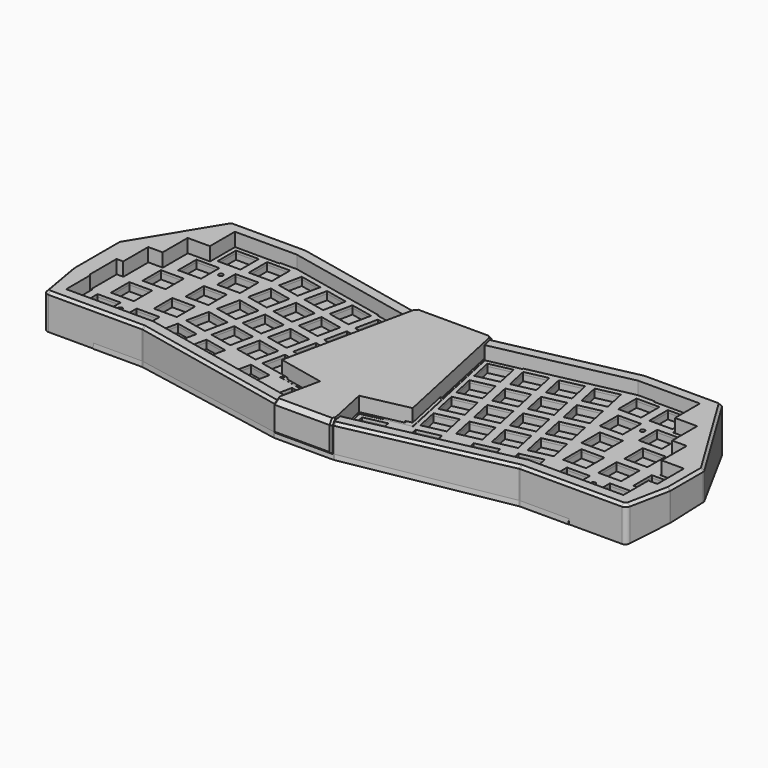
from build123d import *

# Parameters (mm, degrees)
PAD_DEPTH       = 1.6
FILLET_R        = 1.5
FILLET001_R     = 0.8
PAD001_DEPTH    = 40
POCKET_DEPTH    = 400
POCKET001_DEPTH = 50
POCKET001_TAPER = 70
POCKET002_DEPTH = 50
POCKET002_TAPER = 70
POCKET003_DEPTH = 3
POCKET005_DEPTH = 16.8
POCKET007_DEPTH = 22
POCKET012_DEPTH = 59
PAD006_DEPTH    = 3.5
PAD007_DEPTH    = 3.5
SKETCH026_W     = 15
SKETCH026_H     = 4
PAD008_DEPTH    = 3.5
SKETCH027_W     = 15
SKETCH027_H     = 4
PAD009_DEPTH    = 3.5
FILLET003_R     = 8
FILLET004_R     = 3
CHAMFER_SIZE    = 1.6
POCKET019_DEPTH = 200
SKETCH038_R     = 2
POCKET025_DEPTH = 6.7
PAD015_DEPTH    = 3.5
PAD016_DEPTH    = 3.5
POCKET035_DEPTH = 115
PAD002_DEPTH    = 1.5
POCKET008_DEPTH = 5
SKETCH014_W     = 14
SKETCH014_H     = 14
POCKET009_DEPTH = 5
SKETCH044_R     = 1.35
POCKET029_DEPTH = 9
PAD003_DEPTH    = 1.5
POCKET010_DEPTH = 5
SKETCH016_W     = 14
SKETCH016_H     = 14
POCKET011_DEPTH = 5
SKETCH043_R     = 1.35
POCKET028_DEPTH = 9
PAD004_DEPTH    = 20.5
POCKET013_DEPTH = 500
POCKET034_DEPTH = 6
PAD005_DEPTH    = 20.5
POCKET014_DEPTH = 500
SKETCH022_W     = 15
SKETCH022_H     = 4.4
POCKET015_DEPTH = 8
POCKET016_DEPTH = 7
PAD010_DEPTH    = 1.6
FILLET002_R     = 1.5
PAD011_DEPTH    = 28.4
POCKET017_DEPTH = 50
POCKET018_DEPTH = 19.6
POCKET020_DEPTH = 26
POCKET021_DEPTH = 16
POCKET022_DEPTH = 19
POCKET023_DEPTH = 25
POCKET024_DEPTH = 1
CHAMFER001_SIZE = 2.6
CHAMFER002_SIZE = 1.2
SKETCH045_R     = 4.5
SKETCH045_R_2   = 2
PAD013_DEPTH    = 5.6
SKETCH046_R     = 2
POCKET030_DEPTH = 6.7
SKETCH047_R     = 2
POCKET031_DEPTH = 5.7
POCKET032_DEPTH = 13
CHAMFER003_SIZE = 1
SKETCH054_R     = 3.6
SKETCH054_R_2   = 2
PAD014_DEPTH    = 1
SKETCH055_W     = 19
SKETCH055_H     = 36
POCKET033_DEPTH = 1
PAD017_DEPTH    = 8
PAD018_DEPTH    = 8
FILLET005_R     = 1
SKETCH039_R     = 1.5
PAD012_DEPTH    = 3
SKETCH075_W     = 14
SKETCH075_H     = 14
PAD019_DEPTH    = 3.5
SKETCH076_R     = 1.35
POCKET036_DEPTH = 28
SKETCH077_W     = 14
SKETCH077_H     = 14
PAD020_DEPTH    = 3.5
SKETCH078_R     = 1.35
POCKET037_DEPTH = 50
PAD021_DEPTH    = 15
POCKET038_DEPTH = 169.5
SKETCH081_W     = 12
SKETCH081_H     = 16.956177
POCKET039_DEPTH = 2


with BuildPart() as pcb:
    # Sketch001 → Pad (new body)
    with BuildSketch(Plane.XY):
        with BuildLine():
            Line((-25.6569009013, 76.7143133761), (-104.1862885277, 93.40625))
            Line((-104.1862885277, 93.40625), (-140.3865264554, 93.40625))
            Line((-140.3865264554, 93.40625), (-140.3865264554, 74.35625))
            Line((-140.3865264554, 74.35625), (-153.9607289552, 74.35625))
            Line((-153.9607289552, 74.35625), (-153.9607289552, 55.30625))
            Line((-153.9607289552, 55.30625), (-162.772431455, 55.30625))
            Line((-162.772431455, 55.30625), (-162.772431455, 36.25625))
            Line((-162.772431455, 36.25625), (-166.8216339549, 36.25625))
            Line((-166.8216339549, 36.25625), (-166.8216339549, 18.7896622428))
            Line((-166.8216339549, 18.7896622428), (-166.1083364547, 18.0000001221))
            Line((-166.1083364547, 18.0000001221), (-166.1083364547, -0.25625))
            Line((-166.1083364547, -0.25625), (-114.0306139632, -0.25625))
            Line((-114.0306139632, -0.25625), (-33.0319665059, -17.4730440034))
            ThreePointArc((-33.0319665059, -17.4730440034), (0, -21.0075427473), (33.0319665059, -17.4730440034))
            Line((114.0306139632, -0.25625), (33.0319665059, -17.4730440034))
            Line((114.0306139632, -0.25625), (170.8708364547, -0.25625))
            Line((170.8708364547, -0.25625), (170.8708364547, 18.79375))
            Line((170.8708364547, 18.79375), (176.3466339549, 18.79375))
            Line((176.3466339549, 18.79375), (176.3466339549, 36.25625))
            Line((176.3466339549, 36.25625), (162.772431455, 36.25625))
            Line((162.772431455, 36.25625), (162.772431455, 55.30625))
            Line((162.772431455, 55.30625), (153.9607289552, 55.30625))
            Line((153.9607289552, 55.30625), (153.9607289552, 74.35625))
            Line((153.9607289552, 74.35625), (140.3865264554, 74.35625))
            Line((140.3865264554, 74.35625), (140.3865264554, 93.40625))
            Line((140.3865264554, 93.40625), (104.1862885277, 93.40625))
            Line((104.1862885277, 93.40625), (25.6569009013, 76.7143133761))
            Line((34.7896818101, 33.7479573294), (25.6569009013, 76.7143133761))
            Line((29.5137981886, 32.626533647), (34.7896818101, 33.7479573294))
            Line((35.8509465247, 2.8125947766), (29.5137981886, 32.626533647))
            ThreePointArc((-35.8509465247, 2.8125947766), (0, -2.07), (35.8509465247, 2.8125947766))
            Line((-35.8509465247, 2.8125947766), (-29.5137981886, 32.626533647))
            Line((-29.5137981886, 32.626533647), (-34.7896818101, 33.7479573294))
            Line((-34.7896818101, 33.7479573294), (-25.6569009013, 76.7143133761))
        make_face()
    extrude(amount=PAD_DEPTH)

    # Fillet
    fillet_edges = [pcb.edges().sort_by_distance(p)[0] for p in [
        (-166.108336, -0.25625, 0.8),
        (-166.821634, 36.25625, 0.8),
        (-162.772431, 55.30625, 0.8),
        (-153.960729, 74.35625, 0.8),
        (-140.386526, 93.40625, 0.8),
        (-25.656901, 76.714313, 0.8),
        (25.656901, 76.714313, 0.8),
        (140.386526, 93.40625, 0.8),
        (153.960729, 74.35625, 0.8),
        (162.772431, 55.30625, 0.8),
        (176.346634, 36.25625, 0.8),
        (176.346634, 18.79375, 0.8),
        (170.870836, -0.25625, 0.8),
        (-114.030614, -0.25625, 0.8),
        (114.030614, -0.25625, 0.8),
        (-104.186289, 93.40625, 0.8),
        (104.186289, 93.40625, 0.8),
    ]]
    fillet(fillet_edges, radius=FILLET_R)

    # Fillet001
    fillet001_edges = [pcb.edges().sort_by_distance(p)[0] for p in [
        (-34.789682, 33.747957, 0.8),
        (-29.513798, 32.626534, 0.8),
        (-35.850947, 2.812595, 0.8),
        (-140.386526, 74.35625, 0.8),
        (-153.960729, 55.30625, 0.8),
        (-162.772431, 36.25625, 0.8),
        (-166.108336, 18, 0.8),
        (-166.821634, 18.789662, 0.8),
        (35.850947, 2.812595, 0.8),
        (29.513798, 32.626534, 0.8),
        (34.789682, 33.747957, 0.8),
        (140.386526, 74.35625, 0.8),
        (153.960729, 55.30625, 0.8),
        (162.772431, 36.25625, 0.8),
        (170.870836, 18.79375, 0.8),
    ]]
    fillet(fillet001_edges, radius=FILLET001_R)


with BuildPart() as pcb_1:
    # Body001 placement: moved
    add(pcb.part.moved(Location((0, 0, 5.4))))


with BuildPart() as body002:
    # Sketch002 → Pad001 (new body)
    with BuildSketch(Plane.XY.offset(-20.2)):
        Polygon((-149.4960240693, 102.2), (-179.6153839549, 52.8352871714), (-179.6153839549, 18), (-174.9020864547, -9.05), (-114.9548743321, -9.05), (-18.2317807246, -29.6091282113), (18.2317807246, -29.6091282113), (114.9548743321, -9.05), (179.6645864547, -9.05), (185.1403839549, 18), (185.1403839549, 43.7799805707), (149.4960240693, 102.2), (103.2620281588, 102.2), (23.0521728121, 85.1508689355), (-23.0521728121, 85.1508689355), (-103.2620281588, 102.2), align=None)
    extrude(amount=PAD001_DEPTH)

    # Sketch004 → Pocket (cut)
    with BuildSketch(Plane.YZ.offset(200)):
        Polygon((-29.6091282113, 0), (427.5929638991, -40), (-34.6091282113, -40), (-34.6091282113, 0), align=None)
    extrude(amount=-POCKET_DEPTH, mode=Mode.SUBTRACT)

    # Sketch005 (on Face2 of Pocket) → Pocket001 (cut)
    with BuildSketch(Plane(origin=(0, -0.2249145944, -2.5707855781), x_dir=(1, 0, 0), z_dir=(0, -0.0871557427, -0.9961946981))):
        Polygon((179.664586, 8.858796), (139.4960240693, -102.8161611286), (-829.867004, -717.988555), (0, -4000), (8000, 0), (0, 4000), (-701.29071, 993.332806), align=None)
    extrude(amount=-POCKET001_DEPTH, taper=POCKET001_TAPER, mode=Mode.SUBTRACT)

    # Sketch006 (on Face2 of Pocket001) → Pocket002 (cut)
    with BuildSketch(Plane(origin=(0, -0.2249145944, -2.5707855781), x_dir=(1, 0, 0), z_dir=(0, -0.0871557427, -0.9961946981))):
        Polygon((-174.9020864547, 8.8587957981), (-139.4960240693, -102.8161611286), (0, -4000), (-8000, 0), (0, 4000), align=None)
    extrude(amount=-POCKET002_DEPTH, taper=POCKET002_TAPER, mode=Mode.SUBTRACT)

    # Sketch007 (on Face19 of Pocket002) → Pocket003 (cut)
    with BuildSketch(Plane(origin=(0, -0.2249145944, -2.5707855781), x_dir=(1, 0, 0), z_dir=(0, -0.0871557427, -0.9961946981))):
        Polygon((-172.1698836043, 6.8587957981), (-144.9548743321, 6.8587957981), (-144.9548743321, 8.8587957981), (-144.9548743321, 29.4964565392), (-88.6830095072, 29.4964565392), (0, 55.200555), (88.6830096055, 29.496457), (144.9548743321, 29.496457), (144.9548743321, 8.8587957981), (144.9548743321, 6.8587957981), (176.8197582998, 6.8587957981), (138.0899634837, -100.8161611286), (103.4730219471, -100.8161611286), (72.3688065106, -94.1795015486), (71.9514637892, -96.1354731877), (70.5260154697, -102.8161611286), (-70.5260154697, -102.8161611286), (-71.9514637892, -96.1354731877), (-72.3688065106, -94.1795015486), (-103.4730219471, -100.8161611286), (-138.0320039292, -100.8161611286), align=None)
    extrude(amount=-POCKET003_DEPTH, mode=Mode.SUBTRACT)

    # Sketch003 → Pocket005 (cut)
    with BuildSketch(Plane.XY.offset(19.8)):
        Polygon((-141.7802764554, 94.8), (-141.7802764554, 75.75), (-155.3544789552, 75.75), (-155.3544789552, 56.7), (-164.166181455, 56.7), (-164.166181455, 37.65), (-168.2153839549, 37.65), (-168.2153839549, 17.4), (-167.5020864547, 16.6867024998), (-167.5020864547, -1.65), (-152.5020864547, -1.65), (-126.7802764554, 94.8), align=None)
        Polygon((157.2645864547, -1.65), (172.2645864547, -1.65), (172.2645864547, 17.4), (177.7403839549, 17.4), (177.7403839549, 37.65), (164.166181455, 37.65), (164.166181455, 56.7), (155.3544789552, 56.7), (155.3544789552, 75.75), (141.7802764554, 75.75), (141.7802764554, 94.8), (126.7802764554, 94.8), align=None)
    extrude(amount=-POCKET005_DEPTH, mode=Mode.SUBTRACT)

    # Sketch012 → Pocket007 (cut)
    with BuildSketch(Plane.XY.offset(-10)):
        Polygon((-44.2784183533, 81.4839219459), (-43.4259804209, 85.4943271089), (-103.6719346763, 98.3), (-114.0802764554, 98.3), (-114.0802764554, 94.2), (-149.2770864547, -1.05), (-149.2770864547, -5.15), (-114.5449678146, -5.15), (-42.8527627495, -20.3886486072), (-42.0003248171, -16.3782434442), (-111.178681455, 37.05), align=None)
        Polygon((44.2784183533, 81.4839219459), (43.4259804209, 85.4943271089), (103.6719346763, 98.3), (114.0802764554, 98.3), (114.0802764554, 94.2), (149.2770864547, -1.05), (149.2770864547, -5.15), (114.5449678146, -5.15), (42.8527627495, -20.3886486072), (42.0003248171, -16.3782434442), (111.178681455, 37.05), align=None)
    extrude(amount=POCKET007_DEPTH, mode=Mode.SUBTRACT)

    # Sketch017 → Pocket012 (cut)
    with BuildSketch(Plane.XY.offset(40)):
        Polygon((-164.7812608877, -1.65), (-114.1771029911, -1.65), (-16.6932414892, -22.3708344192), (16.6932414892, -22.3708344192), (114.1771029911, -1.65), (169.1251097712, -1.65), (134.3003201796, 94.8), (104.0397994998, 94.8), (24.5907120235, 77.9125751382), (-24.5907120235, 77.9125751382), (-104.0397994998, 94.8), (-134.0853982624, 94.8), align=None)
    extrude(amount=-POCKET012_DEPTH, mode=Mode.SUBTRACT)

    # Sketch024 (on Face92 of Pocket012) → Pad006 (join)
    with BuildSketch(Plane(origin=(-5.9988132418, -28.2221973985, 0), x_dir=(-0.9781476007, 0.2079116908, 0), z_dir=(0.2079116908, 0.9781476007, 0))):
        Polygon((47.675634708, 2.0229030007), (47.675634708, 6.0229030006), (62.6731537758, 5.7500993892), (62.6731537758, 1.7500993892), align=None)
    extrude(amount=PAD006_DEPTH)

    # Sketch025 (on Face94 of Pad006) → Pad007 (join)
    with BuildSketch(Plane(origin=(5.9988132418, -28.2221973985, 0), x_dir=(-0.9781476007, -0.2079116908, 0), z_dir=(-0.2079116908, 0.9781476007, 0))):
        Polygon((-47.675634708, 2.0229030007), (-47.675634708, 6.0229030007), (-62.6731537758, 5.7500993892), (-62.6731537758, 1.7500993892), align=None)
    extrude(amount=PAD007_DEPTH)

    # Sketch026 (on Face91 of Pad007) → Pad008 (join)
    with BuildSketch(Plane(origin=(0, -5.15, 0), x_dir=(-1, 0, 0), z_dir=(0, 1, 0))):
        with Locations((131.7770864547, 2.8715630744)):
            Rectangle(SKETCH026_W, SKETCH026_H)
    extrude(amount=PAD008_DEPTH)

    # Sketch027 (on Face97 of Pad008) → Pad009 (join)
    with BuildSketch(Plane(origin=(0, -5.15, 0), x_dir=(-1, 0, 0), z_dir=(0, 1, 0))):
        with Locations((-131.7770864547, 2.8715630744)):
            Rectangle(SKETCH027_W, SKETCH027_H)
    extrude(amount=PAD009_DEPTH)

    # Fillet003
    fillet003_edges = [body002.edges().sort_by_distance(p)[0] for p in [
        (134.30032, 94.8, -2.436464),
        (138.089963, 100.338344, -9.863201),
        (-134.085398, 94.8, -2.436464),
        (-138.032004, 100.338344, -9.863201),
        (169.12511, -1.65, 1.782676),
        (176.819758, -6.926877, -0.47871),
        (-164.781261, -1.65, 1.782676),
        (-172.169884, -6.926877, -0.47871),
    ]]
    fillet(fillet003_edges, radius=FILLET003_R)

    # Fillet004
    fillet004_edges = [body002.edges().sort_by_distance(p)[0] for p in [
        (-174.902086, -9.05, 9.000655),
        (-179.615384, 18, 10.115146),
        (-179.615384, 52.835287, 10.503488),
        (-149.496024, 102.2, 5.858877),
        (-114.954874, -9.05, 10.506384),
        (-18.231781, -29.609128, 11.40573),
        (18.231781, -29.609128, 11.40573),
        (114.954874, -9.05, 10.506384),
        (179.664586, -9.05, 9.000655),
        (185.140384, 18, 10.409616),
        (185.140384, 43.779981, 10.864903),
        (149.496024, 102.2, 5.834753),
        (103.262028, 102.2, 4.134098),
        (23.052173, 85.150869, 6.38563),
        (-23.052173, 85.150869, 6.38563),
        (-103.262028, 102.2, 4.134098),
    ]]
    fillet(fillet004_edges, radius=FILLET004_R)

    # Chamfer
    chamfer_edges = [body002.edges().sort_by_distance(p)[0] for p in [
        (-177.452971, 5.589733, 19.8),
    ]]
    chamfer(chamfer_edges, length=CHAMFER_SIZE)

    # Sketch032 → Pocket019 (cut)
    with BuildSketch(Plane.XY):
        Polygon((-10, -38.338413), (10, -38.338413), (10, -15.045521), (10, 62.395123), (10, 94.439026), (-10, 94.439026), (-10, 62.395123), (-10, -15.045521), align=None)
    extrude(amount=POCKET019_DEPTH, mode=Mode.SUBTRACT)

    # Sketch038 (on Face53 of Pocket019) → Pocket025 (cut)
    with BuildSketch(Plane(origin=(0, 0.0365526338, 0.4177985162), x_dir=(1, 0, 0), z_dir=(0, -0.0871557427, -0.9961946981))):
        with Locations((-152.8770864547, 4.7929949909)):
            Circle(SKETCH038_R)
        with Locations((-117.6802764554, -98.7254283402)):
            Circle(SKETCH038_R)
        with Locations((117.6802764554, -98.7254283402)):
            Circle(SKETCH038_R)
        with Locations((152.8770864547, 4.7929949909)):
            Circle(SKETCH038_R)
        with Locations((31.1362598613, 23.092329532)):
            Circle(SKETCH038_R)
        with Locations((-31.1362598613, 23.092329532)):
            Circle(SKETCH038_R)
        with Locations((-31.6633816813, -83.3636160948)):
            Circle(SKETCH038_R)
        with Locations((31.6633816813, -83.3636160948)):
            Circle(SKETCH038_R)
    extrude(amount=-POCKET025_DEPTH, mode=Mode.SUBTRACT)

    # Sketch057 (on Face148 of Pocket025) → Pad015 (join)
    with BuildSketch(Plane(origin=(15.5096511733, 72.9671718974, 0), x_dir=(0.9781476007, -0.2079116908, 0), z_dir=(-0.2079116908, -0.9781476007, 0))):
        Polygon((-85.2481537758, -7.1133944772), (-70.250634708, -6.8405908657), (-70.250634708, -2.8405908657), (-85.2481537758, -3.1133944772), align=None)
    extrude(amount=PAD015_DEPTH)

    # Sketch058 (on Face151 of Pad015) → Pad016 (join)
    with BuildSketch(Plane(origin=(-15.5096511733, 72.9671718974, 0), x_dir=(0.9781476007, 0.2079116908, 0), z_dir=(0.2079116908, -0.9781476007, 0))):
        Polygon((70.250634708, -6.8406570349), (85.2481537758, -7.1134606463), (85.2481537758, -3.1134606463), (70.250634708, -2.8406570349), align=None)
    extrude(amount=PAD016_DEPTH)

    # Sketch061 (on Face13 of Pad016) → Pocket035 (cut, symmetric)
    with BuildSketch(Plane.XZ.offset(-77.9125751382)):
        Polygon((-10, 14.8), (-15, 9.8), (-10, 4.8), align=None)
        Polygon((10, 14.8), (15, 9.8), (10, 4.8), align=None)
    extrude(amount=POCKET035_DEPTH, both=True, mode=Mode.SUBTRACT)


with BuildPart() as plate_left:
    # Sketch010 → Pad002 (new body)
    with BuildSketch(Plane.XY):
        Polygon((-141.1802764554, 75.15), (-141.1802764554, 94.2), (-113.9802764554, 94.2), (-113.9802764554, 98.2), (-103.6824451002, 98.2), (-43.5445863501, 85.417303518), (-44.3762331134, 81.504713115), (-24.7154663386, 77.3256881296), (-40.5583371789, 2.7908409536), (-12.6077694879, -3.1502356114), (-16.568487198, -21.7839474054), (-42.0981395772, -16.3574522751), (-42.9297863405, -20.270042678), (-114.5344573907, -5.05), (-149.1770864547, -5.05), (-149.1770864547, -1.05), (-166.9020864547, -1.05), (-166.9020864547, 17.2867024998), (-167.6153839549, 18), (-167.6153839549, 37.05), (-163.566181455, 37.05), (-163.566181455, 56.1), (-154.7544789552, 56.1), (-154.7544789552, 75.15), align=None)
    extrude(amount=PAD002_DEPTH)

    # Sketch013 (on Face26 of Pad002) → Pocket008 (cut)
    with BuildSketch(Plane.XY.offset(1.5)):
        Polygon((-41.40433246, 78.2916061285), (-44.3150961315, 64.5975397182), (-30.6210297212, 61.6867760468), (-27.7102660498, 75.380842457), align=None)
        Polygon((-46.3439778438, 79.3415601671), (-60.038044254, 82.2523238386), (-62.9488079255, 68.5582574283), (-49.2547415152, 65.6474937568), align=None)
        Polygon((-64.9776896377, 83.3022778772), (-78.671756048, 86.2130415486), (-81.5825197195, 72.5189751384), (-67.8884533092, 69.6082114669), align=None)
        Polygon((-83.6114014317, 87.2629955873), (-97.305467842, 90.1737592587), (-100.2162315134, 76.4796928485), (-86.5221651032, 73.568929177), align=None)
        Polygon((-31.6709837599, 56.7471306631), (-45.3650501701, 59.6578943345), (-48.2758138416, 45.9638279242), (-34.5817474313, 43.0530642528), align=None)
        Polygon((-50.3046955538, 60.7078483731), (-63.9987619641, 63.6186120446), (-66.9095256356, 49.9245456343), (-53.2154592253, 47.0137819629), align=None)
        Polygon((-68.9384073478, 64.6685660832), (-82.6324737581, 67.5793297547), (-85.5432374295, 53.8852633444), (-71.8491710193, 50.9744996729), align=None)
        Polygon((-87.5721191418, 68.6292837933), (-101.2661855521, 71.5400474647), (-104.1769492235, 57.8459810545), (-90.4828828132, 54.935217383), align=None)
        Polygon((-35.6317014699, 38.1134188691), (-49.3257678802, 41.0241825405), (-52.2365315517, 27.3301161303), (-38.5424651414, 24.4193524588), align=None)
        Polygon((-54.2654132639, 42.0741365792), (-67.9594796742, 44.9849002506), (-70.8702433456, 31.2908338403), (-57.1761769354, 28.3800701689), align=None)
        Polygon((-72.8991250579, 46.0348542892), (-86.5931914682, 48.9456179607), (-89.5039551396, 35.2515515504), (-75.8098887293, 32.340787879), align=None)
        Polygon((-91.5328368519, 49.9955719993), (-105.2269032621, 52.9063356708), (-108.1376669336, 39.2122692605), (-94.4436005233, 36.301505589), align=None)
        Polygon((-39.59241918, 19.4797070751), (-53.2864855903, 22.3904707466), (-56.1972492617, 8.6964043363), (-42.5031828515, 5.7856406648), align=None)
        Polygon((-58.226130974, 23.4404247852), (-71.9201973843, 26.3511884566), (-74.8309610557, 12.6571220464), (-61.1368946454, 9.7463583749), align=None)
        Polygon((-76.859842768, 27.4011424953), (-90.5539091782, 30.3119061667), (-93.4646728497, 16.6178397564), (-79.7706064394, 13.707076085), align=None)
        Polygon((-95.4935545619, 31.3618602053), (-109.1876209722, 34.2726238768), (-112.0983846437, 20.5785574665), (-98.4043182334, 17.6677937951), align=None)
        Polygon((-15.6025691991, -5.095081284), (-29.2966356094, -2.1843176125), (-32.2073992808, -15.8783840228), (-18.5133328706, -18.7891476943), align=None)
        Polygon((-45.8823508643, 1.3410849949), (-59.5764172746, 4.2518486663), (-62.4871809461, -9.4422177439), (-48.7931145358, -12.3529814154), align=None)
        Polygon((-99.454272272, 12.7281484114), (-113.1483386823, 15.6389120828), (-116.0591023537, 1.9448456725), (-102.3650359435, -0.9659179989), align=None)
        Polygon((-78.4913465038, 8.2723409875), (-92.1854129141, 11.183104659), (-95.0961765855, -2.5109617513), (-81.4021101752, -5.4217254227), align=None)
    extrude(amount=-POCKET008_DEPTH, mode=Mode.SUBTRACT)

    # Sketch014 (on Face5 of Pocket008) → Pocket009 (cut)
    with BuildSketch(Plane.XY.offset(1.5)):
        with Locations((-131.1833364547, 8.475)):
            Rectangle(SKETCH014_W, SKETCH014_H)
        with Locations((-154.9958364547, 8.475)):
            Rectangle(SKETCH014_W, SKETCH014_H)
        with Locations((-150.9466339549, 27.525)):
            Rectangle(SKETCH014_W, SKETCH014_H)
        with Locations((-124.7528839549, 27.525)):
            Rectangle(SKETCH014_W, SKETCH014_H)
        with Locations((-120.703681455, 46.575)):
            Rectangle(SKETCH014_W, SKETCH014_H)
        with Locations((-146.897431455, 46.575)):
            Rectangle(SKETCH014_W, SKETCH014_H)
        with Locations((-140.4669789552, 65.625)):
            Rectangle(SKETCH014_W, SKETCH014_H)
        with Locations((-116.6544789552, 65.625)):
            Rectangle(SKETCH014_W, SKETCH014_H)
        with Locations((-131.6552764554, 84.675)):
            Rectangle(SKETCH014_W, SKETCH014_H)
        with Locations((-112.6052764554, 84.675)):
            Rectangle(SKETCH014_W, SKETCH014_H)
    extrude(amount=-POCKET009_DEPTH, mode=Mode.SUBTRACT)

    # Sketch044 → Pocket029 (cut)
    with BuildSketch(Plane.XY):
        with Locations((-144.2802114547, 10.475)):
            Circle(SKETCH044_R)
        with Locations((-128.5607289552, 67.625)):
            Circle(SKETCH044_R)
    extrude(amount=POCKET029_DEPTH, mode=Mode.SUBTRACT)


with BuildPart() as plate_left_1:
    # Body003 placement: moved
    add(plate_left.part.moved(Location((0, 0, 10.5))))


with BuildPart() as plate_right:
    # Sketch011 → Pad003 (new body)
    with BuildSketch(Plane.XY):
        Polygon((16.568487198, -21.7839474054), (12.6077694879, -3.1502356114), (40.5583371789, 2.7908409536), (24.7154663386, 77.3256881296), (44.3762331134, 81.504713115), (43.5445863501, 85.417303518), (103.6824451003, 98.2), (113.9802764554, 98.2), (113.9802764554, 94.2), (141.1802764554, 94.2), (141.1802764554, 75.15), (154.7544789552, 75.15), (154.7544789552, 56.1), (163.566181455, 56.1), (163.566181455, 37.05), (177.1403839549, 37.05), (177.1403839549, 18), (171.6645864547, 18), (171.6645864547, -1.05), (149.1770864547, -1.05), (149.1770864547, -5.05), (114.5344573906, -5.05), (42.9297863405, -20.270042678), (42.0981395772, -16.3574522751), align=None)
    extrude(amount=PAD003_DEPTH)

    # Sketch015 (on Face26 of Pad003) → Pocket010 (cut)
    with BuildSketch(Plane.XY.offset(1.5)):
        Polygon((41.4043324601, 78.2916061285), (27.7102660498, 75.380842457), (30.6210297212, 61.6867760468), (44.3150961315, 64.5975397182), align=None)
        Polygon((60.038044254, 82.2523238386), (46.3439778438, 79.3415601671), (49.2547415152, 65.6474937568), (62.9488079255, 68.5582574283), align=None)
        Polygon((78.671756048, 86.2130415486), (64.9776896377, 83.3022778772), (67.8884533092, 69.6082114669), (81.5825197195, 72.5189751384), align=None)
        Polygon((97.305467842, 90.1737592587), (83.6114014317, 87.2629955873), (86.5221651032, 73.568929177), (100.2162315134, 76.4796928485), align=None)
        Polygon((45.3650501701, 59.6578943345), (31.6709837599, 56.7471306631), (34.5817474313, 43.0530642528), (48.2758138416, 45.9638279242), align=None)
        Polygon((63.9987619641, 63.6186120446), (50.3046955538, 60.7078483731), (53.2154592253, 47.0137819629), (66.9095256356, 49.9245456343), align=None)
        Polygon((82.6324737581, 67.5793297547), (68.9384073478, 64.6685660832), (71.8491710193, 50.9744996729), (85.5432374295, 53.8852633444), align=None)
        Polygon((101.2661855521, 71.5400474647), (87.5721191418, 68.6292837933), (90.4828828132, 54.935217383), (104.1769492235, 57.8459810545), align=None)
        Polygon((49.3257678802, 41.0241825405), (35.6317014699, 38.1134188691), (38.5424651414, 24.4193524588), (52.2365315517, 27.3301161303), align=None)
        Polygon((53.2864855903, 22.3904707466), (39.59241918, 19.4797070751), (42.5031828515, 5.7856406648), (56.1972492617, 8.6964043363), align=None)
        Polygon((58.226130974, 23.4404247852), (61.1368946454, 9.7463583749), (74.8309610557, 12.6571220464), (71.9201973843, 26.3511884566), align=None)
        Polygon((67.9594796742, 44.9849002506), (54.2654132639, 42.0741365792), (57.1761769354, 28.3800701689), (70.8702433456, 31.2908338403), align=None)
        Polygon((86.5931914682, 48.9456179607), (72.8991250579, 46.0348542892), (75.8098887293, 32.340787879), (89.5039551396, 35.2515515504), align=None)
        Polygon((105.2269032621, 52.9063356708), (91.5328368519, 49.9955719993), (94.4436005233, 36.301505589), (108.1376669336, 39.2122692605), align=None)
        Polygon((90.5539091782, 30.3119061667), (76.859842768, 27.4011424953), (79.7706064394, 13.707076085), (93.4646728497, 16.6178397564), align=None)
        Polygon((95.4935545619, 31.3618602053), (98.4043182334, 17.6677937951), (112.0983846437, 20.5785574665), (109.1876209722, 34.2726238768), align=None)
        Polygon((97.1250582978, 12.2330586976), (100.0358219692, -1.4610077127), (113.7298883795, 1.4497559588), (110.8191247081, 15.1438223691), align=None)
        Polygon((73.8329185553, 7.28216156), (76.7436822268, -6.4119048503), (90.437748637, -3.5011411788), (87.5269849656, 10.1929252315), align=None)
        Polygon((43.5531368901, 0.8459952811), (46.4639005615, -12.8480711291), (60.1579669718, -9.9373074577), (57.2472033004, 3.7567589526), align=None)
        Polygon((15.6025691991, -5.095081284), (18.5133328706, -18.7891476943), (32.2073992808, -15.8783840228), (29.2966356094, -2.1843176125), align=None)
    extrude(amount=-POCKET010_DEPTH, mode=Mode.SUBTRACT)

    # Sketch016 (on Face5 of Pocket010) → Pocket011 (cut)
    with BuildSketch(Plane.XY.offset(1.5)):
        with Locations((112.6052764554, 84.675)):
            Rectangle(SKETCH016_W, SKETCH016_H)
        with Locations((131.6552764554, 84.675)):
            Rectangle(SKETCH016_W, SKETCH016_H)
        with Locations((116.6544789552, 65.625)):
            Rectangle(SKETCH016_W, SKETCH016_H)
        with Locations((140.4669789552, 65.625)):
            Rectangle(SKETCH016_W, SKETCH016_H)
        with Locations((120.703681455, 46.575)):
            Rectangle(SKETCH016_W, SKETCH016_H)
        with Locations((146.897431455, 46.575)):
            Rectangle(SKETCH016_W, SKETCH016_H)
        with Locations((124.7528839549, 27.525)):
            Rectangle(SKETCH016_W, SKETCH016_H)
        with Locations((146.1841339549, 27.525)):
            Rectangle(SKETCH016_W, SKETCH016_H)
        with Locations((167.6153839549, 27.525)):
            Rectangle(SKETCH016_W, SKETCH016_H)
        with Locations((157.3770864547, 8.475)):
            Rectangle(SKETCH016_W, SKETCH016_H)
        with Locations((131.1833364547, 8.475)):
            Rectangle(SKETCH016_W, SKETCH016_H)
    extrude(amount=-POCKET011_DEPTH, mode=Mode.SUBTRACT)

    # Sketch043 → Pocket028 (cut)
    with BuildSketch(Plane.XY):
        with Locations((144.2802114547, 10.475)):
            Circle(SKETCH043_R)
        with Locations((128.5607289552, 67.625)):
            Circle(SKETCH043_R)
    extrude(amount=POCKET028_DEPTH, mode=Mode.SUBTRACT)


with BuildPart() as plate_right_1:
    # Body004 placement: moved
    add(plate_right.part.moved(Location((0, 0, 10.5))))


with BuildPart() as plate_fixer_top:
    # Sketch018 → Pad004 (new body)
    with BuildSketch(Plane.XY.offset(-10)):
        Polygon((-114.1802764554, 97.2393398282), (-114.1802764554, 94.8), (-104.0397994998, 94.8), (-44.0558565787, 82.0500193373), (-43.5486893106, 84.4360537376), (-44.3656478631, 85.6940595896), (-102.6937870756, 98.0920883092), (-104.6719346763, 98.3), (-113.1196162836, 98.3), align=None)
    extrude(amount=PAD004_DEPTH)

    # Sketch019 → Pocket013 (cut)
    with BuildSketch(Plane.YZ):
        Polygon((-33.369128412, 3.299812), (125.3191748906, -10.5836155731), (125.3191748906, -34.97134), (-49.09955583, -34.97134), (-49.09955583, 3.299812), align=None)
    extrude(amount=-POCKET013_DEPTH, mode=Mode.SUBTRACT)

    # Sketch056 (on Face6 of Pocket013) → Pocket034 (cut)
    with BuildSketch(Plane(origin=(14.7819602554, 69.5436552949, 0), x_dir=(0.9781476007, -0.2079116908, 0), z_dir=(-0.2079116908, -0.9781476007, 0))):
        Polygon((-70.2522886628, -2.5817731331), (-85.2498077306, -2.8545767446), (-85.2498077306, -12.8545767446), (-70.2522886628, -12.5817731331), align=None)
    extrude(amount=-POCKET034_DEPTH, mode=Mode.SUBTRACT)


with BuildPart() as plate_fixer_bottom:
    # Sketch020 → Pad005 (new body)
    with BuildSketch(Plane.XY.offset(-10)):
        with BuildLine():
            Line((-149.3770864547, -1.65), (-114.1771029911, -1.65))
            Line((-114.1771029911, -1.65), (-42.0272570715, -16.9859231737))
            Line((-42.0272570715, -16.9859231737), (-42.5344243397, -19.371957574))
            Line((-42.5344243397, -19.371957574), (-43.7924301916, -20.1889161266))
            Line((-43.7924301916, -20.1889161266), (-114.0558940141, -5.2539558454))
            ThreePointArc((-114.0558940141, -5.2539558454), (-114.4927035829, -4.6527390523), (-115.0449678145, -5.15))
            Line((-115.0449678145, -5.15), (-148.3164262829, -5.15))
            Line((-148.3164262829, -5.15), (-149.3770864547, -4.0893398282))
            Line((-149.3770864547, -4.0893398282), (-149.3770864547, -1.65))
        make_face()
    extrude(amount=PAD005_DEPTH)

    # Sketch021 → Pocket014 (cut)
    with BuildSketch(Plane.YZ):
        Polygon((-33.369128412, 3.299812), (125.3191748906, -10.5836155731), (125.3191748906, -34.97134), (-49.09955583, -34.97134), (-49.09955583, 3.299812), align=None)
    extrude(amount=-POCKET014_DEPTH, mode=Mode.SUBTRACT)

    # Sketch022 (on Face1 of Pocket014) → Pocket015 (cut)
    with BuildSketch(Plane(origin=(0, -1.65, 0), x_dir=(-1, 0, 0), z_dir=(0, 1, 0))):
        with Locations((131.7770864547, 2.724747847)):
            Rectangle(SKETCH022_W, SKETCH022_H)
    extrude(amount=-POCKET015_DEPTH, mode=Mode.SUBTRACT)

    # Sketch023 (on Face2 of Pocket015) → Pocket016 (cut)
    with BuildSketch(Plane(origin=(-5.2711223239, -24.7986807959, 0), x_dir=(-0.9781476007, 0.2079116908, 0), z_dir=(0.2079116908, 0.9781476007, 0))):
        Polygon((47.6756181685, 1.6827795044), (47.6756181685, 6.0827795044), (62.6731372363, 5.8099758929), (62.6731372363, 1.4099758929), align=None)
    extrude(amount=-POCKET016_DEPTH, mode=Mode.SUBTRACT)


with BuildPart() as pcb_core:
    # Sketch028 → Pad010 (new body)
    with BuildSketch(Plane.XY):
        with BuildLine():
            Line((-24.2903297212, 76.8006881296), (24.2903297212, 76.8006881296))
            Line((24.2903297212, 76.8006881296), (39.9356560509, 3.1952148064))
            Line((39.9356560509, 3.1952148064), (29.998245005, 1.0829528826))
            ThreePointArc((-29.998245005, 1.0829528826), (0, -2.07), (29.998245005, 1.0829528826))
            Line((-39.9356560509, 3.1952148064), (-29.998245005, 1.0829528826))
            Line((-39.9356560509, 3.1952148064), (-24.2903297212, 76.8006881296))
        make_face()
    extrude(amount=PAD010_DEPTH)

    # Fillet002
    fillet002_edges = [pcb_core.edges().sort_by_distance(p)[0] for p in [
        (-39.935656, 3.195215, 0.8),
        (-24.29033, 76.800688, 0.8),
        (24.29033, 76.800688, 0.8),
        (39.935656, 3.195215, 0.8),
    ]]
    fillet(fillet002_edges, radius=FILLET002_R)


with BuildPart() as pcb_core_1:
    # Body007 placement: moved
    add(pcb_core.part.moved(Location((0, 0, 10))))


with BuildPart() as case_core:
    # Sketch029 → Pad011 (new body)
    with BuildSketch(Plane.XY):
        Polygon((-17.9584668663, -31.2091282113), (-11.8943740038, -2.6798143436), (-39.844852054, 3.2612431678), (-22.0854419765, 86.7508689355), (22.0986779565, 86.7508689355), (39.846701604, 3.2529824996), (11.896133913, -2.6880940655), (17.9584668663, -31.2091282113), align=None)
    extrude(amount=PAD011_DEPTH)

    # Sketch030 → Pocket017 (cut, symmetric)
    with BuildSketch(Plane.YZ):
        Polygon((-31.2091282114, 0), (-31.2091282114, 10.1399818616), (84.6913948162, 0), align=None)
    extrude(amount=POCKET017_DEPTH, both=True, mode=Mode.SUBTRACT)

    # Sketch031 → Pocket018 (cut)
    with BuildSketch(Plane.XY):
        with BuildLine():
            Line((171.6645864547, -20.7708337586), (171.6645864547, 76.7508689355))
            Line((171.6645864547, 76.7508689355), (-166.9020864547, 76.7508689355))
            Line((-166.9020864547, 76.7508689355), (-166.9020864547, -20.7708337586))
            Line((-166.9020864547, -20.7708337586), (-14.6128973912, -20.7708337586))
            ThreePointArc((-14.6128973912, -20.7708337586), (0, -21.3708337586), (14.6128973912, -20.7708337586))
            Line((171.6645864547, -20.7708337586), (14.6128973912, -20.7708337586))
        make_face()
    extrude(amount=POCKET018_DEPTH, mode=Mode.SUBTRACT)

    # Sketch033 → Pocket020 (cut)
    with BuildSketch(Plane.YZ.offset(-9.6)):
        Polygon((-29.6091282114, -7.025155), (-29.6091282114, 25.2), (-28.0091282114, 26.8), (-22.3708337586, 26.8), (-22.3708337586, -7.025155), align=None)
    extrude(amount=-POCKET020_DEPTH, mode=Mode.SUBTRACT)

    # Sketch034 → Pocket021 (cut)
    with BuildSketch(Plane.YZ.offset(-9.6)):
        Polygon((85.1508689355, -10.772844), (85.1508689355, 25.2), (83.5508689355, 26.8), (77.9108689355, 26.8), (77.9108689355, -10.772844), align=None)
    extrude(amount=-POCKET021_DEPTH, mode=Mode.SUBTRACT)

    # Sketch035 → Pocket022 (cut)
    with BuildSketch(Plane.YZ.offset(9.6)):
        Polygon((-29.6091282114, -7.025155), (-29.6091282114, 25.2), (-28.0091282114, 26.8), (-22.3708337586, 26.8), (-22.3708337586, -7.025155), align=None)
    extrude(amount=POCKET022_DEPTH, mode=Mode.SUBTRACT)

    # Sketch036 → Pocket023 (cut)
    with BuildSketch(Plane.YZ.offset(9.6)):
        Polygon((85.1508689355, -10.772844), (85.1508689355, 25.2), (83.5508689355, 26.8), (77.9108689355, 26.8), (77.9108689355, -10.772844), align=None)
    extrude(amount=POCKET023_DEPTH, mode=Mode.SUBTRACT)

    # Sketch037 (on Face2 of Pocket023) → Pocket024 (cut)
    with BuildSketch(Plane(origin=(0, 0, 19.6), x_dir=(1, 0, 0), z_dir=(0, 0, -1))):
        Polygon((-39.844852054, -3.2612431678), (-35.9322616511, -2.4295964045), (-29.6904916408, -31.7730847305), (-33.6030820438, -32.6047314938), align=None)
        Polygon((35.934111201, -2.4213357363), (29.6967604765, -31.7657637584), (33.6093508794, -32.5974105216), (39.846701604, -3.2529824996), align=None)
    extrude(amount=-POCKET024_DEPTH, mode=Mode.SUBTRACT)

    # Chamfer001
    chamfer001_edges = [case_core.edges().sort_by_distance(p)[0] for p in [
        (0, -31.209128, 28.4),
        (0.006618, 86.750869, 28.4),
    ]]
    chamfer(chamfer001_edges, length=CHAMFER001_SIZE)

    # Chamfer002
    chamfer002_edges = [case_core.edges().sort_by_distance(p)[0] for p in [
        (0, -31.209128, 10.139982),
        (0.006618, 86.750869, 0),
        (17.958467, -31.209128, 17.969991),
        (-17.958467, -31.209128, 17.969991),
        (-17.682143, -29.909128, 27.1),
        (17.682143, -29.909128, 27.1),
        (22.098678, 86.750869, 12.9),
        (22.375001, 85.450869, 27.1),
        (-22.36197, 85.450869, 27.1),
        (-22.085442, 86.750869, 12.9),
    ]]
    chamfer(chamfer002_edges, length=CHAMFER002_SIZE)

    # Sketch045 → Pad013 (join)
    with BuildSketch(Plane.XY.offset(19.6)):
        with Locations((0, -10.4867326534)):
            Circle(SKETCH045_R)
        with Locations((0, -10.4867326534)):
            Circle(SKETCH045_R_2, mode=Mode.SUBTRACT)
    extrude(amount=-PAD013_DEPTH)

    # Sketch046 (on Face55 of Pad013) → Pocket030 (cut)
    with BuildSketch(Plane(origin=(0, 0, 14), x_dir=(1, 0, 0), z_dir=(0, 0, -1))):
        with Locations((0, 10.4867326534)):
            Circle(SKETCH046_R)
    extrude(amount=-POCKET030_DEPTH, mode=Mode.SUBTRACT)

    # Sketch047 → Pocket031 (cut)
    with BuildSketch(Plane.XY.offset(18.6)):
        with Locations((-20.778249147, 72.3256881296)):
            Circle(SKETCH047_R)
        with Locations((20.778249147, 72.3256881296)):
            Circle(SKETCH047_R)
    extrude(amount=POCKET031_DEPTH, mode=Mode.SUBTRACT)

    # Sketch048 (on Face30 of Pocket031) → Pocket032 (cut)
    with BuildSketch(Plane.XZ.offset(-76.7508689355)):
        with BuildLine():
            ThreePointArc((-4, 13.5), (-7.5, 10), (-4, 6.5))
            Line((-4, 6.5), (4, 6.5))
            ThreePointArc((4, 6.5), (7.5, 10), (4, 13.5))
            Line((4, 13.5), (-4, 13.5))
        make_face()
    extrude(amount=-POCKET032_DEPTH, mode=Mode.SUBTRACT)

    # Chamfer003
    chamfer003_edges = [case_core.edges().sort_by_distance(p)[0] for p in [
        (0, 86.750869, 13.5),
        (0, 86.750869, 6.5),
        (-7.5, 86.750869, 10),
        (7.5, 86.750869, 10),
        (-7.5, 76.750869, 10),
        (0, 76.750869, 13.5),
        (7.5, 76.750869, 10),
        (0, 76.750869, 6.5),
    ]]
    chamfer(chamfer003_edges, length=CHAMFER003_SIZE)

    # Sketch054 → Pad014 (join)
    with BuildSketch(Plane.XY.offset(19.6)):
        with Locations((-20.778249147, 72.3256881296)):
            Circle(SKETCH054_R)
        with Locations((-20.778249147, 72.3256881296)):
            Circle(SKETCH054_R_2, mode=Mode.SUBTRACT)
        with Locations((20.778249147, 72.3256881296)):
            Circle(SKETCH054_R)
        with Locations((20.778249147, 72.3256881296)):
            Circle(SKETCH054_R_2, mode=Mode.SUBTRACT)
    extrude(amount=-PAD014_DEPTH)

    # Sketch055 (on Face7 of Pad014) → Pocket033 (cut)
    with BuildSketch(Plane(origin=(0, 0, 19.6), x_dir=(1, 0, 0), z_dir=(0, 0, -1))):
        with Locations((0, -58.7508689355)):
            Rectangle(SKETCH055_W, SKETCH055_H)
    extrude(amount=-POCKET033_DEPTH, mode=Mode.SUBTRACT)

    # Sketch060 (on Face23 of Pocket033) → Pad017 (join)
    with BuildSketch(Plane.XZ.offset(-85.1508689355)):
        Polygon((9.6, 11.8), (14.6, 16.8), (9.6, 21.8), align=None)
        Polygon((-9.6, 21.8), (-14.6, 16.8), (-9.6, 11.8), align=None)
    extrude(amount=PAD017_DEPTH)

    # Sketch062 (on Face68 of Pad017) → Pad018 (join)
    with BuildSketch(Plane.XZ.offset(22.3708337586)):
        Polygon((9.6, 11.8), (14.6, 16.8), (9.6, 21.8), align=None)
        Polygon((-9.6, 21.8), (-14.6, 16.8), (-9.6, 11.8), align=None)
    extrude(amount=PAD018_DEPTH)

    # Fillet005
    fillet005_edges = [case_core.edges().sort_by_distance(p)[0] for p in [
        (-14.6, -25.989981, 16.8),
        (14.6, -25.989981, 16.8),
        (14.6, 81.530869, 16.8),
        (-14.6, 81.530869, 16.8),
    ]]
    fillet(fillet005_edges, radius=FILLET005_R)


with BuildPart() as case_core_1:
    # Body008 placement: moved
    add(case_core.part.moved(Location((0, 0, -7))))


with BuildPart() as bottom_plate:
    # Sketch039 (on Face1 of ShapeBinder) → Pad012 (new body)
    with BuildSketch(Plane(origin=(0, 0.0365526338, 0.4177985162), x_dir=(1, 0, 0), z_dir=(0, -0.0871557427, -0.9961946981))):
        with BuildLine():
            Line((-161.2410722027, 6.8587957981), (-144.9548743321, 6.8587957981))
            Line((-144.9548743321, 6.8587957981), (-144.9548743321, 9.1212617887))
            Line((-144.9548743321, 9.1212617887), (-115.2701870379, 9.1212617887))
            ThreePointArc((-115.2701870379, 9.1212617887), (-114.9565885355, 9.137759223), (-114.6464519654, 9.1870694043))
            Line((-114.6464519654, 9.1870694043), (-18.5402030912, 29.6931149142))
            ThreePointArc((-17.9164680188, 29.7589225298), (-18.2300665212, 29.7424250956), (-18.5402030912, 29.6931149142))
            Line((-17.9164680188, 29.7589225298), (17.9164680188, 29.7589225298))
            ThreePointArc((18.5402030912, 29.6931149142), (18.2300665212, 29.7424250954), (17.9164680188, 29.7589225298))
            Line((18.5402030912, 29.6931149142), (114.6464519654, 9.1870694043))
            ThreePointArc((114.6464519654, 9.1870694043), (114.9565885355, 9.1377592229), (115.2701870379, 9.1212617887))
            Line((115.2701870379, 9.1212617887), (144.9548743321, 9.1212617887))
            Line((144.9548743321, 9.1212617887), (144.9548743321, 6.8587957981))
            Line((144.9548743321, 6.8587957981), (165.4404477897, 6.8587957981))
            ThreePointArc((172.9682864995, -3.848905138), (171.9849725046, 3.4597952825), (165.4404477897, 6.8587957981))
            Line((172.9682864995, -3.848905138), (139.9935596529, -95.5238626154))
            ThreePointArc((132.4656991023, -100.8161611286), (137.0667113716, -99.3606923494), (139.9935596529, -95.5238626154))
            Line((103.4730219471, -100.8161611286), (132.4656991023, -100.8161611286))
            Line((103.4730219471, -100.8161611286), (72.3688065106, -94.1795015486))
            Line((72.005027227, -95.8844359471), (72.3688065106, -94.1795015486))
            Line((72.005027227, -95.8844359471), (23.3605951787, -85.5052467781))
            ThreePointArc((23.3605951787, -85.5052467781), (23.0504586087, -85.4559365966), (22.7368601063, -85.4394391625))
            Line((22.7368601063, -85.4394391625), (-22.7368601063, -85.4394391625))
            ThreePointArc((-22.7368601063, -85.4394391625), (-23.0504586087, -85.4559365967), (-23.3605951787, -85.5052467782))
            Line((-23.3605951787, -85.5052467782), (-72.005027227, -95.8844359471))
            Line((-72.005027227, -95.8844359471), (-72.3688065106, -94.1795015486))
            Line((-72.3688065106, -94.1795015486), (-103.4730219471, -100.8161611286))
            Line((-103.4730219471, -100.8161611286), (-132.1759233685, -100.8161611286))
            ThreePointArc((-139.801834999, -95.2339021826), (-136.9012842842, -99.2714662504), (-132.1759233685, -100.8161611286))
            Line((-168.8669716338, -3.5589837341), (-139.801834999, -95.2339021826))
            ThreePointArc((-161.2410722027, 6.8587957981), (-167.6963892459, 3.584140428), (-168.8669716338, -3.5589837341))
        make_face()
        with Locations((-117.6802764554, -98.7254283402)):
            Circle(SKETCH039_R, mode=Mode.SUBTRACT)
        with Locations((-31.6633816813, -83.3636160948)):
            Circle(SKETCH039_R, mode=Mode.SUBTRACT)
        with Locations((31.6633816813, -83.3636160948)):
            Circle(SKETCH039_R, mode=Mode.SUBTRACT)
        with Locations((-152.8770864547, 4.7929949909)):
            Circle(SKETCH039_R, mode=Mode.SUBTRACT)
        with Locations((-31.1362598613, 23.092329532)):
            Circle(SKETCH039_R, mode=Mode.SUBTRACT)
        with Locations((31.1362598613, 23.092329532)):
            Circle(SKETCH039_R, mode=Mode.SUBTRACT)
        with Locations((152.8770864547, 4.7929949909)):
            Circle(SKETCH039_R, mode=Mode.SUBTRACT)
        with Locations((117.6802764554, -98.7254283402)):
            Circle(SKETCH039_R, mode=Mode.SUBTRACT)
    extrude(amount=PAD012_DEPTH)


with BuildPart() as plate_tpu_left:
    # Sketch075 → Pad019 (new body)
    with BuildSketch(Plane.XY):
        Polygon((-141.1802764554, 75.15), (-141.1802764554, 94.2), (-104.1028620409, 94.2), (-24.7154663386, 77.3256881296), (-40.5583371789, 2.7908409537), (-12.607769488, -3.1502356115), (-16.568487198, -21.7839474054), (-114.11404045, -1.05), (-166.9020864547, -1.05), (-166.9020864547, 17.2867024998), (-167.6153839549, 18), (-167.6153839549, 37.05), (-163.566181455, 37.05), (-163.566181455, 56.1), (-154.7544789552, 56.1), (-154.7544789552, 75.15), align=None)
        Polygon((-83.6114014317, 87.2629955873), (-97.305467842, 90.1737592587), (-100.2162315134, 76.4796928485), (-86.5221651032, 73.568929177), align=None, mode=Mode.SUBTRACT)
        Polygon((-78.671756048, 86.2130415486), (-81.5825197195, 72.5189751384), (-67.8884533092, 69.6082114669), (-64.9776896377, 83.3022778772), align=None, mode=Mode.SUBTRACT)
        Polygon((-60.038044254, 82.2523238386), (-62.9488079255, 68.5582574283), (-49.2547415152, 65.6474937568), (-46.3439778438, 79.3415601671), align=None, mode=Mode.SUBTRACT)
        Polygon((-41.4043324601, 78.2916061285), (-44.3150961315, 64.5975397182), (-30.6210297212, 61.6867760468), (-27.7102660498, 75.380842457), align=None, mode=Mode.SUBTRACT)
        Polygon((-101.2661855521, 71.5400474647), (-104.1769492235, 57.8459810545), (-90.4828828132, 54.935217383), (-87.5721191418, 68.6292837933), align=None, mode=Mode.SUBTRACT)
        Polygon((-82.6324737581, 67.5793297547), (-85.5432374295, 53.8852633444), (-71.8491710193, 50.9744996729), (-68.9384073478, 64.6685660832), align=None, mode=Mode.SUBTRACT)
        Polygon((-63.9987619641, 63.6186120446), (-66.9095256356, 49.9245456343), (-53.2154592253, 47.0137819629), (-50.3046955538, 60.7078483731), align=None, mode=Mode.SUBTRACT)
        Polygon((-45.3650501701, 59.6578943345), (-48.2758138416, 45.9638279242), (-34.5817474313, 43.0530642528), (-31.6709837599, 56.7471306631), align=None, mode=Mode.SUBTRACT)
        Polygon((-105.2269032621, 52.9063356708), (-108.1376669336, 39.2122692605), (-94.4436005233, 36.301505589), (-91.5328368519, 49.9955719993), align=None, mode=Mode.SUBTRACT)
        Polygon((-86.5931914682, 48.9456179607), (-89.5039551396, 35.2515515504), (-75.8098887293, 32.340787879), (-72.8991250579, 46.0348542892), align=None, mode=Mode.SUBTRACT)
        Polygon((-67.9594796742, 44.9849002506), (-70.8702433456, 31.2908338403), (-57.1761769354, 28.3800701689), (-54.2654132639, 42.0741365792), align=None, mode=Mode.SUBTRACT)
        Polygon((-49.3257678802, 41.0241825405), (-52.2365315517, 27.3301161303), (-38.5424651414, 24.4193524588), (-35.6317014699, 38.1134188691), align=None, mode=Mode.SUBTRACT)
        Polygon((-109.1876209722, 34.2726238768), (-112.0983846437, 20.5785574665), (-98.4043182334, 17.6677937951), (-95.493554562, 31.3618602053), align=None, mode=Mode.SUBTRACT)
        Polygon((-90.5539091782, 30.3119061667), (-93.4646728497, 16.6178397564), (-79.7706064394, 13.707076085), (-76.859842768, 27.4011424953), align=None, mode=Mode.SUBTRACT)
        Polygon((-71.9201973843, 26.3511884566), (-74.8309610557, 12.6571220464), (-61.1368946454, 9.7463583749), (-58.226130974, 23.4404247852), align=None, mode=Mode.SUBTRACT)
        Polygon((-53.2864855903, 22.3904707466), (-56.1972492617, 8.6964043363), (-42.5031828515, 5.7856406648), (-39.59241918, 19.4797070751), align=None, mode=Mode.SUBTRACT)
        Polygon((-113.1483386823, 15.6389120828), (-116.0591023538, 1.9448456725), (-102.3650359435, -0.9659179989), (-99.454272272, 12.7281484114), align=None, mode=Mode.SUBTRACT)
        Polygon((-92.1854129141, 11.183104659), (-95.0961765855, -2.5109617513), (-81.4021101753, -5.4217254227), (-78.4913465038, 8.2723409875), align=None, mode=Mode.SUBTRACT)
        Polygon((-59.5764172746, 4.2518486663), (-62.4871809461, -9.4422177439), (-48.7931145358, -12.3529814154), (-45.8823508643, 1.3410849949), align=None, mode=Mode.SUBTRACT)
        Polygon((-15.6025691991, -5.095081284), (-29.2966356094, -2.1843176125), (-32.2073992808, -15.8783840228), (-18.5133328706, -18.7891476943), align=None, mode=Mode.SUBTRACT)
        with Locations((-131.6552764554, 84.675)):
            Rectangle(SKETCH075_W, SKETCH075_H, mode=Mode.SUBTRACT)
        with Locations((-112.6052764554, 84.675)):
            Rectangle(SKETCH075_W, SKETCH075_H, mode=Mode.SUBTRACT)
        with Locations((-140.4669789552, 65.625)):
            Rectangle(SKETCH075_W, SKETCH075_H, mode=Mode.SUBTRACT)
        with Locations((-116.6544789552, 65.625)):
            Rectangle(SKETCH075_W, SKETCH075_H, mode=Mode.SUBTRACT)
        with Locations((-146.897431455, 46.575)):
            Rectangle(SKETCH075_W, SKETCH075_H, mode=Mode.SUBTRACT)
        with Locations((-120.703681455, 46.575)):
            Rectangle(SKETCH075_W, SKETCH075_H, mode=Mode.SUBTRACT)
        with Locations((-150.9466339549, 27.525)):
            Rectangle(SKETCH075_W, SKETCH075_H, mode=Mode.SUBTRACT)
        with Locations((-124.7528839549, 27.525)):
            Rectangle(SKETCH075_W, SKETCH075_H, mode=Mode.SUBTRACT)
        with Locations((-154.9958364547, 8.475)):
            Rectangle(SKETCH075_W, SKETCH075_H, mode=Mode.SUBTRACT)
        with Locations((-131.1833364547, 8.475)):
            Rectangle(SKETCH075_W, SKETCH075_H, mode=Mode.SUBTRACT)
    extrude(amount=PAD019_DEPTH)

    # Sketch076 → Pocket036 (cut)
    with BuildSketch(Plane.XY):
        with Locations((-144.2802114547, 10.475)):
            Circle(SKETCH076_R)
        with Locations((-128.5607289552, 67.625)):
            Circle(SKETCH076_R)
    extrude(amount=POCKET036_DEPTH, mode=Mode.SUBTRACT)


with BuildPart() as plate_tpu_left_1:
    # Body010 placement: moved
    add(plate_tpu_left.part.moved(Location((0, 0, 7))))


with BuildPart() as plate_tpu_right:
    # Sketch077 → Pad020 (new body)
    with BuildSketch(Plane.XY):
        Polygon((16.568487198, -21.7839474054), (12.607769488, -3.1502356115), (40.5583371789, 2.7908409537), (24.7154663386, 77.3256881296), (104.1028620409, 94.2), (141.1802764554, 94.2), (141.1802764554, 75.15), (154.7544789552, 75.15), (154.7544789552, 56.1), (163.566181455, 56.1), (163.566181455, 37.05), (177.1403839549, 37.05), (177.1403839549, 18), (171.6645864547, 18), (171.6645864547, -1.05), (114.11404045, -1.05), align=None)
        Polygon((41.4043324601, 78.2916061285), (27.7102660498, 75.380842457), (30.6210297212, 61.6867760468), (44.3150961315, 64.5975397182), align=None, mode=Mode.SUBTRACT)
        Polygon((60.038044254, 82.2523238386), (46.3439778438, 79.3415601671), (49.2547415152, 65.6474937568), (62.9488079255, 68.5582574283), align=None, mode=Mode.SUBTRACT)
        Polygon((78.671756048, 86.2130415486), (64.9776896377, 83.3022778772), (67.8884533092, 69.6082114669), (81.5825197195, 72.5189751384), align=None, mode=Mode.SUBTRACT)
        Polygon((97.305467842, 90.1737592587), (83.6114014317, 87.2629955873), (86.5221651032, 73.568929177), (100.2162315134, 76.4796928485), align=None, mode=Mode.SUBTRACT)
        Polygon((45.3650501701, 59.6578943345), (31.6709837599, 56.7471306631), (34.5817474313, 43.0530642528), (48.2758138416, 45.9638279242), align=None, mode=Mode.SUBTRACT)
        Polygon((63.9987619641, 63.6186120446), (50.3046955538, 60.7078483731), (53.2154592253, 47.0137819629), (66.9095256356, 49.9245456343), align=None, mode=Mode.SUBTRACT)
        Polygon((82.6324737581, 67.5793297547), (68.9384073478, 64.6685660832), (71.8491710193, 50.9744996729), (85.5432374295, 53.8852633444), align=None, mode=Mode.SUBTRACT)
        Polygon((101.2661855521, 71.5400474647), (87.5721191418, 68.6292837933), (90.4828828132, 54.935217383), (104.1769492235, 57.8459810545), align=None, mode=Mode.SUBTRACT)
        Polygon((105.2269032621, 52.9063356708), (91.5328368519, 49.9955719993), (94.4436005233, 36.301505589), (108.1376669336, 39.2122692605), align=None, mode=Mode.SUBTRACT)
        Polygon((86.5931914682, 48.9456179607), (72.8991250579, 46.0348542892), (75.8098887293, 32.340787879), (89.5039551396, 35.2515515504), align=None, mode=Mode.SUBTRACT)
        Polygon((67.9594796742, 44.9849002506), (54.2654132639, 42.0741365792), (57.1761769354, 28.3800701689), (70.8702433456, 31.2908338403), align=None, mode=Mode.SUBTRACT)
        Polygon((49.3257678802, 41.0241825405), (35.6317014699, 38.1134188691), (38.5424651414, 24.4193524588), (52.2365315517, 27.3301161303), align=None, mode=Mode.SUBTRACT)
        Polygon((53.2864855903, 22.3904707466), (39.59241918, 19.4797070751), (42.5031828515, 5.7856406648), (56.1972492617, 8.6964043363), align=None, mode=Mode.SUBTRACT)
        Polygon((71.9201973843, 26.3511884566), (58.226130974, 23.4404247852), (61.1368946454, 9.7463583749), (74.8309610557, 12.6571220464), align=None, mode=Mode.SUBTRACT)
        Polygon((90.5539091782, 30.3119061667), (76.859842768, 27.4011424953), (79.7706064394, 13.707076085), (93.4646728497, 16.6178397564), align=None, mode=Mode.SUBTRACT)
        Polygon((109.1876209722, 34.2726238768), (95.493554562, 31.3618602053), (98.4043182334, 17.6677937951), (112.0983846437, 20.5785574665), align=None, mode=Mode.SUBTRACT)
        Polygon((15.6025691991, -5.095081284), (18.5133328706, -18.7891476943), (32.2073992808, -15.8783840228), (29.2966356094, -2.1843176125), align=None, mode=Mode.SUBTRACT)
        Polygon((57.2472033004, 3.7567589526), (43.5531368901, 0.8459952811), (46.4639005615, -12.8480711291), (60.1579669718, -9.9373074577), align=None, mode=Mode.SUBTRACT)
        Polygon((97.1250582978, 12.2330586976), (100.0358219692, -1.4610077127), (113.7298883795, 1.4497559588), (110.8191247081, 15.1438223691), align=None, mode=Mode.SUBTRACT)
        Polygon((90.437748637, -3.5011411788), (87.5269849656, 10.1929252315), (73.8329185553, 7.28216156), (76.7436822268, -6.4119048503), align=None, mode=Mode.SUBTRACT)
        with Locations((112.6052764554, 84.675)):
            Rectangle(SKETCH077_W, SKETCH077_H, mode=Mode.SUBTRACT)
        with Locations((116.6544789552, 65.625)):
            Rectangle(SKETCH077_W, SKETCH077_H, mode=Mode.SUBTRACT)
        with Locations((120.703681455, 46.575)):
            Rectangle(SKETCH077_W, SKETCH077_H, mode=Mode.SUBTRACT)
        with Locations((124.7528839549, 27.525)):
            Rectangle(SKETCH077_W, SKETCH077_H, mode=Mode.SUBTRACT)
        with Locations((131.1833364547, 8.475)):
            Rectangle(SKETCH077_W, SKETCH077_H, mode=Mode.SUBTRACT)
        with Locations((157.3770864547, 8.475)):
            Rectangle(SKETCH077_W, SKETCH077_H, mode=Mode.SUBTRACT)
        with Locations((146.1841339549, 27.525)):
            Rectangle(SKETCH077_W, SKETCH077_H, mode=Mode.SUBTRACT)
        with Locations((167.6153839549, 27.525)):
            Rectangle(SKETCH077_W, SKETCH077_H, mode=Mode.SUBTRACT)
        with Locations((146.897431455, 46.575)):
            Rectangle(SKETCH077_W, SKETCH077_H, mode=Mode.SUBTRACT)
        with Locations((140.4669789552, 65.625)):
            Rectangle(SKETCH077_W, SKETCH077_H, mode=Mode.SUBTRACT)
        with Locations((131.6552764554, 84.675)):
            Rectangle(SKETCH077_W, SKETCH077_H, mode=Mode.SUBTRACT)
    extrude(amount=PAD020_DEPTH)

    # Sketch078 → Pocket037 (cut)
    with BuildSketch(Plane.XY):
        with Locations((144.2802114547, 10.475)):
            Circle(SKETCH078_R)
        with Locations((128.5607289552, 67.625)):
            Circle(SKETCH078_R)
    extrude(amount=POCKET037_DEPTH, mode=Mode.SUBTRACT)


with BuildPart() as plate_tpu_right_1:
    # Body011 placement: moved
    add(plate_tpu_right.part.moved(Location((0, 0, 7))))


with BuildPart() as weight:
    # Sketch079 → Pad021 (new body)
    with BuildSketch(Plane.XY.offset(3)):
        with BuildLine():
            Line((24.7154663386, 77.3256881296), (-24.7154663386, 77.3256881296))
            Line((-24.7154663386, 77.3256881296), (-104.1028620409, 94.2))
            Line((-104.1028620409, 94.2), (-127.591835, 94.2))
            ThreePointArc((-127.591835, 94.2), (-132.2928872983, 92.661998917), (-135.1758423876, 88.6428062125))
            Line((-135.1758423876, 88.6428062125), (-160.4540165146, 8.6444410145))
            ThreePointArc((-160.4540165146, 8.6444410145), (-159.3596329331, 1.996538216), (-153.3503990435, -1.05))
            Line((-153.3503990435, -1.05), (-114.11404045, -1.05))
            Line((-114.11404045, -1.05), (-16.568487198, -21.7839474054))
            Line((-16.568487198, -21.7839474054), (16.568487198, -21.7839474054))
            Line((16.568487198, -21.7839474054), (114.11404045, -1.05))
            Line((114.11404045, -1.05), (157.2707234456, -1.05))
            ThreePointArc((157.2707234456, -1.05), (163.4894262565, 2.1798587693), (164.4235821714, 9.12475654))
            Line((135.6711280411, 89.0511133856), (164.4235821714, 9.12475654))
            ThreePointArc((135.6711280411, 89.0511133856), (132.8234173743, 92.7839746136), (128.34697, 94.2))
            Line((128.34697, 94.2), (104.1028620409, 94.2))
            Line((24.7154663386, 77.3256881296), (104.1028620409, 94.2))
        make_face()
    extrude(amount=-PAD021_DEPTH)

    # Sketch080 → Pocket038 (cut, symmetric)
    with BuildSketch(Plane.YZ):
        Polygon((-52.453918, 5.417731), (136.969254, -11.317635), (151.727894, -79.322034), (-108.537164, -103.970803), align=None)
    extrude(amount=POCKET038_DEPTH, both=True, mode=Mode.SUBTRACT)

    # Sketch081 (on Face2 of Pocket038) → Pocket039 (cut)
    with BuildSketch(Plane.XY.offset(3)):
        with Locations((0, 71.1398925)):
            Rectangle(SKETCH081_W, SKETCH081_H)
    extrude(amount=-POCKET039_DEPTH, mode=Mode.SUBTRACT)


solid = Compound([pcb_1.part, body002.part, plate_left_1.part, plate_right_1.part, plate_fixer_top.part, plate_fixer_bottom.part, pcb_core_1.part, case_core_1.part, bottom_plate.part, plate_tpu_left_1.part, plate_tpu_right_1.part, weight.part])
